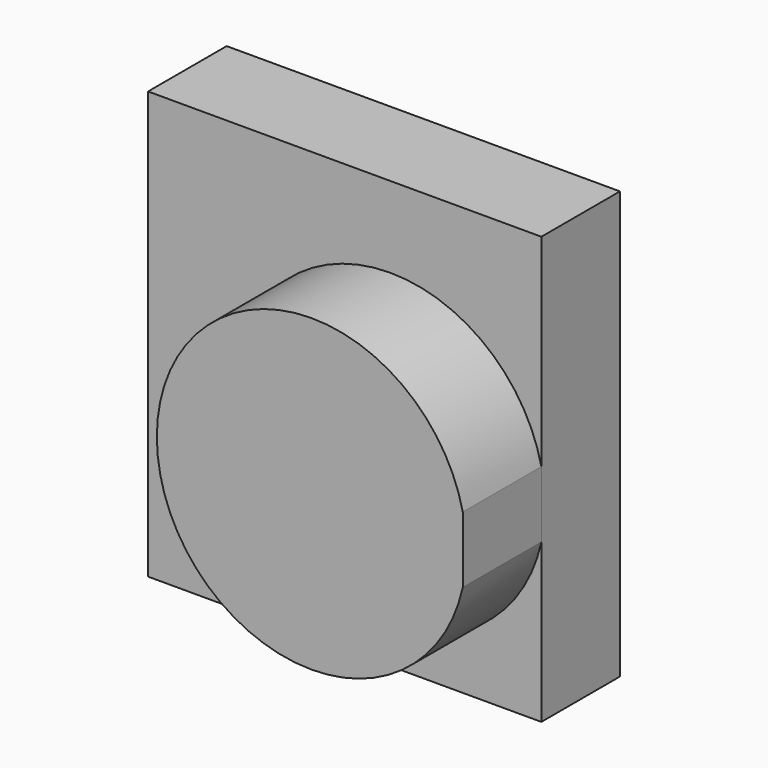
from build123d import *

# Parameters (mm, degrees)
F0_W     = 101.685505
F0_H     = 110.430561
F1_DEPTH = 25.4
F3_DEPTH = 25.4


with BuildPart() as f1:
    # F0 (on Front) → F1 (new body)
    with BuildSketch(Plane.XZ):
        with Locations((-2.378846, 5.691071)):
            Rectangle(F0_W, F0_H)
    extrude(amount=F1_DEPTH)

    # F2 (on face) → F3 (join)
    with BuildSketch(Plane.XZ.offset(25.4)):
        with BuildLine():
            Line((48.463907, -8.572468), (48.463907, 8.572468))
            ThreePointArc((48.463907, 8.572468), (-30.630272, 0), (48.463907, -8.572468))
        make_face()
    extrude(amount=F3_DEPTH)


solid = f1.part
